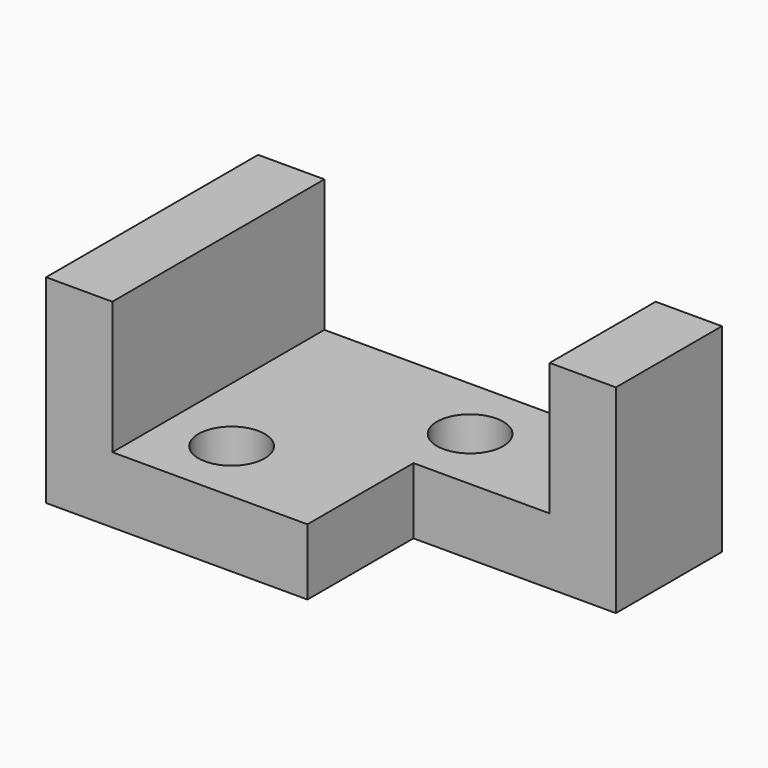
from build123d import *

# Parameters (mm, degrees)
F0_W      = 88.9
F0_H      = 38.1
F1_DEPTH  = 50.8
F2_W      = 63.5
F2_H      = 25.4
F3_DEPTH  = 50.801
F5_DEPTH  = 25.4
F6_R      = 6.35
F8_DEPTH  = 12.701
F7_R      = 6.35
F9_DEPTH  = 25.401
F10_DEPTH = 38.102


with BuildPart() as f1:
    # F0 (on Front) → F1 (new body)
    with BuildSketch(Plane.XZ):
        with Locations((-5.6491568685, -3.2382767176)):
            Rectangle(F0_W, F0_H)
    extrude(amount=F1_DEPTH)

    # F2 (on face) → F3 (cut, through all)
    with BuildSketch(Plane.XZ.offset(50.8)):
        with Locations((-5.6491568685, 3.1117232824)):
            Rectangle(F2_W, F2_H)
    extrude(amount=-F3_DEPTH, mode=Mode.SUBTRACT)

    # F4 (on face) → F5 (cut)
    with BuildSketch(Plane.XZ.offset(50.8)):
        Polygon((26.1008431315, -9.5882767176), (0, -9.5882767176), (0, -22.2882767176), (38.8008431315, -22.2882767176), (38.8008431315, 15.8117232824), (26.1008431315, 15.8117232824), align=None)
    extrude(amount=-F5_DEPTH, mode=Mode.SUBTRACT)

    # F6 (on face) → F8 (cut, through all)
    with BuildSketch(Plane.XY.offset(-9.5882767176)):
        with Locations((0.7008431315, -12.7)):
            Circle(F6_R)
    extrude(amount=-F8_DEPTH, mode=Mode.SUBTRACT)

    # F7 (on face) → F9 (join, through all)
    with BuildSketch(Plane.XY.offset(-9.5882767176)):
        with Locations((-24.6991568685, -38.1)):
            Circle(F7_R)
    extrude(amount=F9_DEPTH)

    # F10 (cut, through all): a face of the model
    f10_faces = [f1.faces().sort_by_distance(p)[0] for p in [
        (-24.6991568685, -38.1, 15.8127232824),
    ]]
    extrude(f10_faces, amount=-F10_DEPTH, mode=Mode.SUBTRACT)


solid = f1.part
